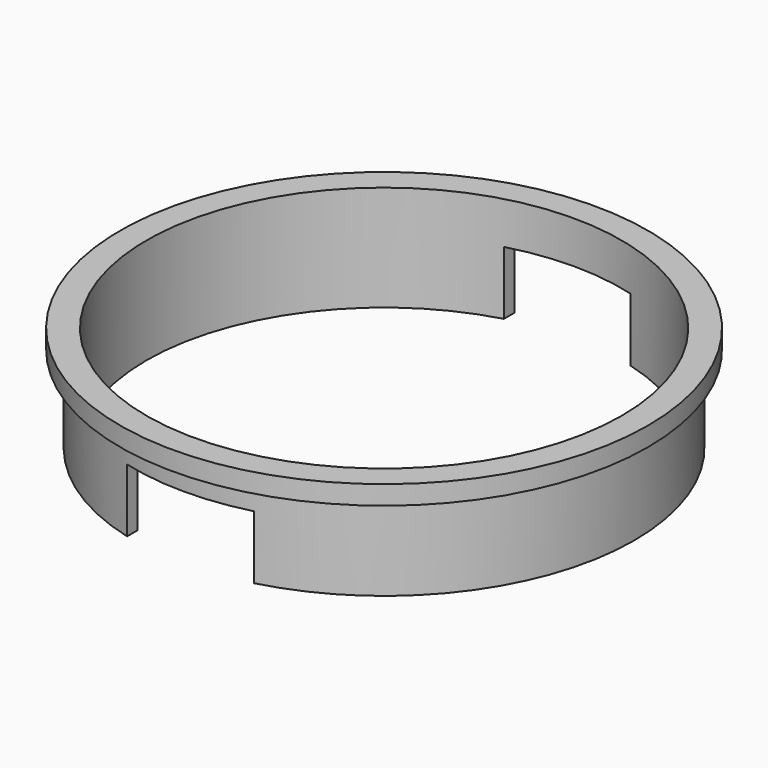
from build123d import *

# Parameters (mm, degrees)
F2_W          = 12
F2_H          = 6
F3_DEPTH      = 25.001
F3_DEPTH_BACK = 25.001


with BuildPart() as f1:
    # F0 (on Front) → F1 (revolve)
    with BuildSketch(Plane.XZ):
        Polygon((22.5, 10), (22.5, 0), (23.7, 0), (23.7, 8.2), (25, 8.2), (25, 10), align=None)
    revolve(axis=Axis((0, 0, 8.0395), (0, 0, 1)))

    # F2 (on Front) → F3 (cut, two sides)
    with BuildSketch(Plane.XZ) as f3_sk:
        with Locations((0, 3)):
            Rectangle(F2_W, F2_H)
    extrude(amount=-F3_DEPTH, mode=Mode.SUBTRACT)
    extrude(f3_sk.sketch, amount=F3_DEPTH_BACK, mode=Mode.SUBTRACT)


solid = f1.part
